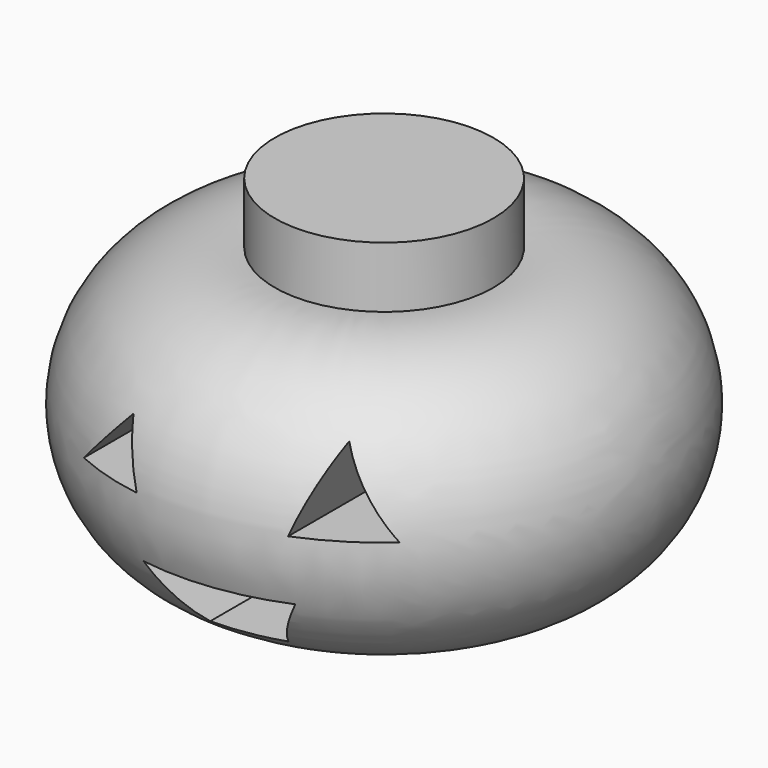
from build123d import *

# Parameters (mm, degrees)
F4_DEPTH = 63.5


with BuildPart() as f2:
    # F1 (on Front) → F2 (revolve)
    with BuildSketch(Plane.XZ):
        with BuildLine():
            Line((0, 52.685302), (0, 0))
            Line((0, 0), (17.161567, 0))
            ThreePointArc((17.161567, 0), (41.453945, 21.553999), (17.161567, 43.107998))
            Line((17.161567, 43.107998), (17.161567, 52.685302))
            Line((17.161567, 52.685302), (0, 52.685302))
        make_face()
    revolve(axis=Axis((0, 0, -0.287805), (0, 0, -1)))

    # F3 (on Front) → F4 (cut, symmetric)
    with BuildSketch(Plane.XZ):
        Polygon((-9.391992, 32.290667), (-17.022986, 23.779174), (-6.163495, 23.779174), align=None)
        Polygon((19.370984, 35.225667), (15.555489, 23.779174), (27.295476, 23.779174), align=None)
        Polygon((15.555489, 13.800183), (-6.163495, 13.800183), (0, 5.288691), (10.85949, 5.288691), align=None)
    extrude(amount=F4_DEPTH, both=True, mode=Mode.SUBTRACT)


solid = f2.part
